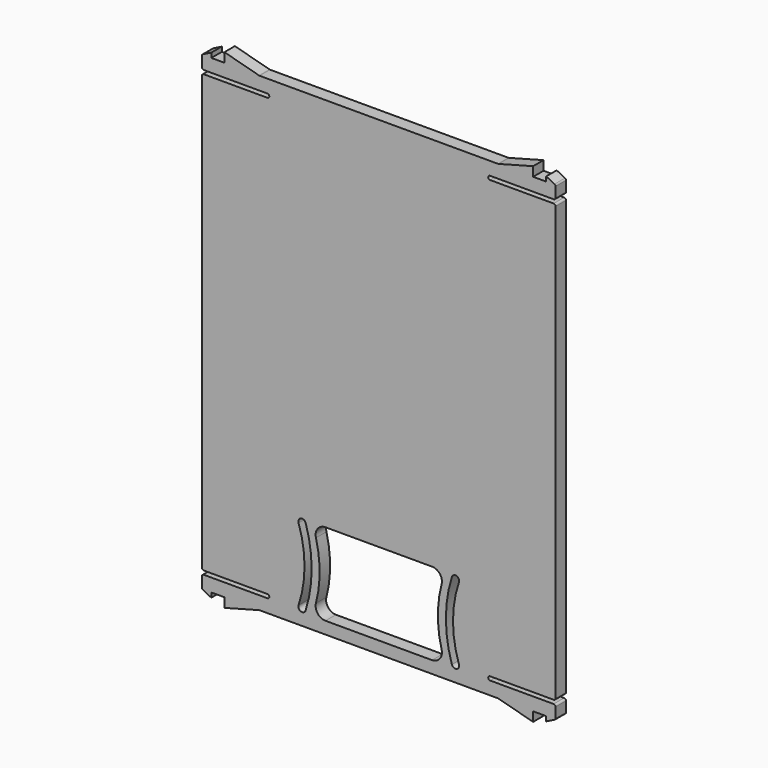
from build123d import *

# Parameters (mm, degrees)
PAD008_DEPTH = 2.8
FILLET001_R  = 0.4
POCKET_DEPTH = 2.801


with BuildPart() as part:
    # Sketch008 → Pad008 (new body)
    with BuildSketch(Plane(origin=(0, 20.1, 0), x_dir=(-1, 0, 0), z_dir=(0, 1, 0))):
        with BuildLine():
            Line((37.8, 63.2), (37.8, 60.4))
            Line((37.8, 60.4), (23.8, 60.4))
            ThreePointArc((23.8, 60.4), (23.4, 60), (23.8, 59.6))
            Line((23.8, 59.6), (37.8, 59.6))
            Line((37.8, 59.6), (37.8, -33.8))
            Line((37.8, -33.8), (23.8, -33.8))
            ThreePointArc((23.8, -33.8), (23.4, -34.2), (23.8, -34.6))
            Line((23.8, -34.6), (37.8, -34.6))
            Line((37.8, -34.6), (37.8, -37.4))
            Line((37.8, -37.4), (35.8, -38.4))
            Line((35.8, -38.4), (35.8, -37.4))
            Line((35.8, -37.4), (33, -37.4))
            Line((33, -39.4), (33, -37.4))
            Line((25.535898, -37.4), (33, -39.4))
            Line((-25.535898, -37.4), (25.535898, -37.4))
            Line((-33, -39.4), (-25.535898, -37.4))
            Line((-33, -37.4), (-33, -39.4))
            Line((-35.8, -37.4), (-33, -37.4))
            Line((-35.8, -38.4), (-35.8, -37.4))
            Line((-37.8, -37.4), (-35.8, -38.4))
            Line((-37.8, -37.4), (-37.8, -34.6))
            Line((-37.8, -34.6), (-23.8, -34.6))
            ThreePointArc((-23.8, -34.6), (-23.4, -34.2), (-23.8, -33.8))
            Line((-23.8, -33.8), (-37.8, -33.8))
            Line((-37.8, -33.8), (-37.8, 59.6))
            Line((-23.8, 59.6), (-37.8, 59.6))
            ThreePointArc((-23.8, 59.6), (-23.4, 60), (-23.8, 60.4))
            Line((-37.8, 60.4), (-23.8, 60.4))
            Line((-37.8, 60.4), (-37.8, 63.2))
            Line((-37.8, 63.2), (-35.8, 64.2))
            Line((-35.8, 64.2), (-35.8, 63.2))
            Line((-35.8, 63.2), (-33, 63.2))
            Line((-33, 65.2), (-33, 63.2))
            Line((-25.535898, 63.2), (-33, 65.2))
            Line((25.535898, 63.2), (-25.535898, 63.2))
            Line((33, 65.2), (25.535898, 63.2))
            Line((33, 63.2), (33, 65.2))
            Line((35.8, 63.2), (33, 63.2))
            Line((35.8, 64.2), (35.8, 63.2))
            Line((37.8, 63.2), (35.8, 64.2))
        make_face()
    extrude(amount=-PAD008_DEPTH)

    # Fillet001
    fillet001_edges = [part.edges().sort_by_distance(p)[0] for p in [
        (-37.8, 18.7, 59.6),
        (-37.8, 18.7, 60.4),
        (-37.8, 18.7, 63.2),
        (-25.535898, 18.7, 63.2),
        (25.535898, 18.7, 63.2),
        (37.8, 18.7, 63.2),
        (37.8, 18.7, 60.4),
        (37.8, 18.7, 59.6),
        (37.8, 18.7, -33.8),
        (37.8, 18.7, -34.6),
        (37.8, 18.7, -37.4),
        (25.535898, 18.7, -37.4),
        (-25.535898, 18.7, -37.4),
        (-37.8, 18.7, -37.4),
        (-37.8, 18.7, -33.8),
        (-37.8, 18.7, -34.6),
    ]]
    fillet(fillet001_edges, radius=FILLET001_R)

    # Sketch029 → Pocket (cut, through all)
    with BuildSketch(Plane(origin=(0, 20.1, 0), x_dir=(-1, 0, 0), z_dir=(0, 1, 0))):
        with BuildLine():
            Line((-11.39, -34.8), (11.39, -34.8))
            ThreePointArc((11.39, -34.8), (13.059932, -33.979739), (13.431495, -32.156708))
            ThreePointArc((13.431495, -19.843292), (12.640618, -26), (13.431495, -32.156708))
            ThreePointArc((13.431495, -19.843292), (13.059932, -18.020261), (11.39, -17.2))
            Line((11.39, -17.2), (-11.39, -17.2))
            ThreePointArc((-11.39, -17.2), (-13.059932, -18.020261), (-13.431495, -19.843292))
            ThreePointArc((-13.431495, -32.156708), (-12.640618, -26), (-13.431495, -19.843292))
            ThreePointArc((-13.431495, -32.156708), (-13.059932, -33.979739), (-11.39, -34.8))
        make_face()
        with BuildLine():
            ThreePointArc((-15.627473, -17.758024), (-16.639367, -17.239858), (-17.147686, -18.256734))
            ThreePointArc((-17.147686, -33.743266), (-15.87146, -26), (-17.147686, -18.256734))
            ThreePointArc((-17.147686, -33.743266), (-16.639367, -34.760142), (-15.627473, -34.241976))
            ThreePointArc((-15.627473, -34.241976), (-14.351104, -26), (-15.627473, -17.758024))
        make_face()
        with BuildLine():
            ThreePointArc((17.147686, -18.256734), (16.639367, -17.239858), (15.627473, -17.758024))
            ThreePointArc((15.627473, -17.758024), (14.351104, -26), (15.627473, -34.241976))
            ThreePointArc((15.627473, -34.241976), (16.639367, -34.760142), (17.147686, -33.743266))
            ThreePointArc((17.147686, -18.256734), (15.87146, -26), (17.147686, -33.743266))
        make_face()
    extrude(amount=-POCKET_DEPTH, mode=Mode.SUBTRACT)


solid = part.part
